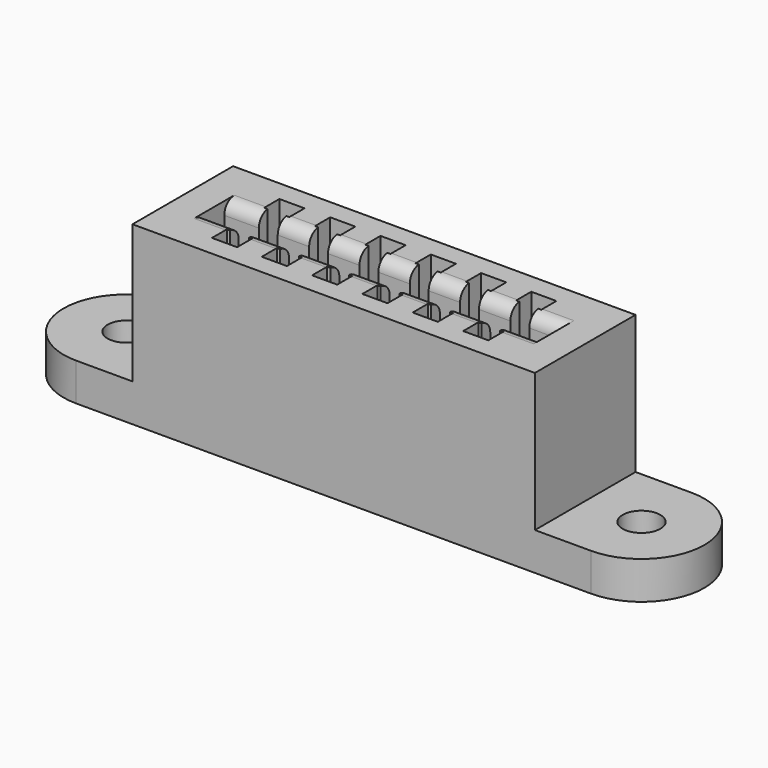
from build123d import *

# Parameters (mm, degrees)
SKETCH_W        = 32
SKETCH_H        = 10
PAD_DEPTH       = 14
SKETCH001_R     = 1.5
PAD001_DEPTH    = 3
SKETCH002_W     = 27
SKETCH002_H     = 2
POCKET_DEPTH    = 8
SKETCH003_R     = 0.35
SKETCH003_R_2   = 0.383924
POCKET001_DEPTH = 18
SKETCH004_W     = 1.5
SKETCH004_H     = 6.7
SKETCH004_H_2   = 6.8
SKETCH004_H_3   = 6.771652
POCKET002_DEPTH = 8
SKETCH005_W     = 2
SKETCH005_H     = 1.5
POCKET003_DEPTH = 8
FILLET_R        = 1


with BuildPart() as part:
    # Sketch → Pad (new body)
    with BuildSketch(Plane.XY):
        Rectangle(SKETCH_W, SKETCH_H)
    extrude(amount=PAD_DEPTH)

    # Sketch001 → Pad001 (new body)
    with BuildSketch(Plane(origin=(0, 0, 0), x_dir=(1, 0, 0), z_dir=(0, 0, -1))):
        with BuildLine():
            ThreePointArc((-20.474548, 5), (-25.474548, 0), (-20.474548, -5))
            Line((-20.474548, -5), (20.474548, -5))
            ThreePointArc((20.474548, -5), (25.474548, 0), (20.474548, 5))
            Line((-20.474548, 5), (20.474548, 5))
        make_face()
        with Locations((-20.474548, 0)):
            Circle(SKETCH001_R, mode=Mode.SUBTRACT)
        with Locations((20.474548, 0)):
            Circle(SKETCH001_R, mode=Mode.SUBTRACT)
    extrude(amount=-PAD001_DEPTH)

    # Sketch002 → Pocket (cut)
    with BuildSketch(Plane.XY.offset(14)):
        Rectangle(SKETCH002_W, SKETCH002_H)
    extrude(amount=-POCKET_DEPTH, mode=Mode.SUBTRACT)

    # Sketch003 → Pocket001 (cut)
    with BuildSketch(Plane(origin=(0, 0, 0), x_dir=(1, 0, 0), z_dir=(0, 0, -1))):
        with Locations((-10, 2.25)):
            Circle(SKETCH003_R)
        with Locations((-6, 2.25)):
            Circle(SKETCH003_R)
        with Locations((-2, 2.25)):
            Circle(SKETCH003_R)
        with Locations((2, 2.25)):
            Circle(SKETCH003_R)
        with Locations((6, 2.25)):
            Circle(SKETCH003_R)
        with Locations((10, 2.25)):
            Circle(SKETCH003_R)
        with Locations((-10, -2.25)):
            Circle(SKETCH003_R)
        with Locations((-6, -2.25)):
            Circle(SKETCH003_R)
        with Locations((-2, -2.25)):
            Circle(SKETCH003_R_2)
        with Locations((2, -2.25)):
            Circle(SKETCH003_R)
        with Locations((6, -2.25)):
            Circle(SKETCH003_R)
        with Locations((10, -2.25)):
            Circle(SKETCH003_R)
    extrude(amount=-POCKET001_DEPTH, mode=Mode.SUBTRACT)

    # Sketch004 → Pocket002 (cut)
    with BuildSketch(Plane.XY.offset(14)):
        with Locations((-10, 0)):
            Rectangle(SKETCH004_W, SKETCH004_H)
        with Locations((-6, 0)):
            Rectangle(SKETCH004_W, SKETCH004_H_2)
        with Locations((-2, 0)):
            Rectangle(SKETCH004_W, SKETCH004_H_2)
        with Locations((2, 0)):
            Rectangle(SKETCH004_W, SKETCH004_H_2)
        with Locations((6, 0)):
            Rectangle(SKETCH004_W, SKETCH004_H_2)
        with Locations((10, 0)):
            Rectangle(SKETCH004_W, SKETCH004_H_3)
    extrude(amount=-POCKET002_DEPTH, mode=Mode.SUBTRACT)

    # Sketch005 → Pocket003 (cut)
    with BuildSketch(Plane.XY.offset(14)):
        with Locations((-10, 2.6)):
            Rectangle(SKETCH005_W, SKETCH005_H)
        with Locations((-6, 2.65)):
            Rectangle(SKETCH005_W, SKETCH005_H)
        with Locations((-2, 2.65)):
            Rectangle(SKETCH005_W, SKETCH005_H)
        with Locations((2, 2.65)):
            Rectangle(SKETCH005_W, SKETCH005_H)
        with Locations((6, 2.65)):
            Rectangle(SKETCH005_W, SKETCH005_H)
        with Locations((10, 2.635826)):
            Rectangle(SKETCH005_W, SKETCH005_H)
        with Locations((-10, -2.6)):
            Rectangle(SKETCH005_W, SKETCH005_H)
        with Locations((-6, -2.65)):
            Rectangle(SKETCH005_W, SKETCH005_H)
        with Locations((-2, -2.65)):
            Rectangle(SKETCH005_W, SKETCH005_H)
        with Locations((2, -2.65)):
            Rectangle(SKETCH005_W, SKETCH005_H)
        with Locations((6, -2.65)):
            Rectangle(SKETCH005_W, SKETCH005_H)
        with Locations((10.005354, -2.635826)):
            Rectangle(SKETCH005_W, SKETCH005_H)
    extrude(amount=-POCKET003_DEPTH, mode=Mode.SUBTRACT)

    # Fillet
    fillet_edges = [part.edges().sort_by_distance(p)[0] for p in [
        (-12.125, 1, 14),
        (-8, 1, 14),
        (-4, 1, 14),
        (0, 1, 14),
        (4, 1, 14),
        (8, 1, 14),
        (12.125, 1, 14),
        (12.125, -1, 14),
        (8, -1, 14),
        (4, -1, 14),
        (0, -1, 14),
        (-4, -1, 14),
        (-8, -1, 14),
        (-12.125, -1, 14),
    ]]
    fillet(fillet_edges, radius=FILLET_R)


solid = part.part
